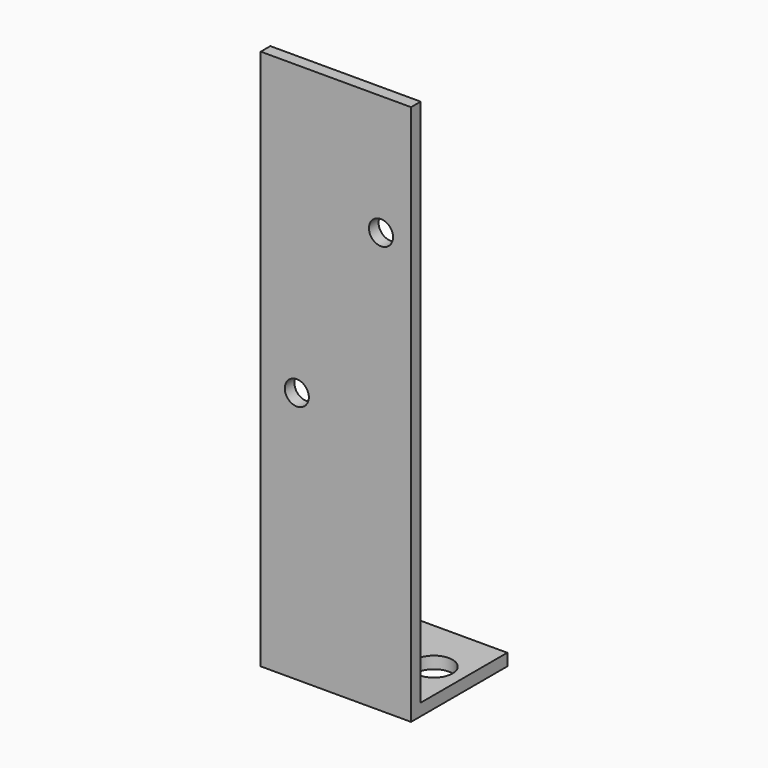
from build123d import *

# Parameters (mm, degrees)
F0_W     = 25
F0_H     = 90
F1_DEPTH = 2
F2_W     = 25
F2_H     = 2
F3_DEPTH = 20
F4_R     = 2
F5_DEPTH = 25
F6_R     = 3.1
F7_DEPTH = 25


with BuildPart() as f1:
    # F0 (on Front) → F1 (new body)
    with BuildSketch(Plane.XZ):
        Rectangle(F0_W, F0_H)
    extrude(amount=F1_DEPTH)

    # F2 (on face) → F3 (join)
    with BuildSketch(Plane.XZ.offset(2)):
        with Locations((0, -44)):
            Rectangle(F2_W, F2_H)
    extrude(amount=-F3_DEPTH)

    # F4 (on face) → F5 (cut)
    with BuildSketch(Plane.XZ.offset(2)):
        with Locations((7.5, 25)):
            Circle(F4_R)
        with Locations((-6.5, -3)):
            Circle(F4_R)
    extrude(amount=-F5_DEPTH, mode=Mode.SUBTRACT)

    # F6 (on face) → F7 (cut)
    with BuildSketch(Plane.XY.offset(-43)):
        with Locations((7.5, 9)):
            Circle(F6_R)
        with Locations((-7.5, 9)):
            Circle(F6_R)
    extrude(amount=-F7_DEPTH, mode=Mode.SUBTRACT)


solid = f1.part
